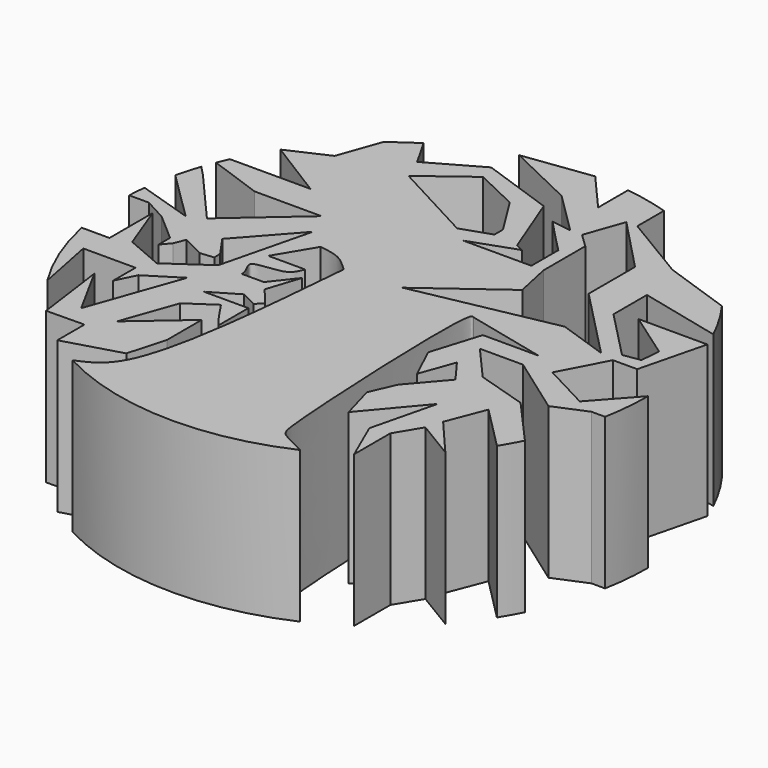
from build123d import *

# Parameters (mm, degrees)
F1_DEPTH = 25.4


with BuildPart() as f1:
    # F0 (on Top) → F1 (new body)
    with BuildSketch(Plane.XY):
        with BuildLine():
            ThreePointArc((43.704676099, -8.1057872589), (44.2632768364, -4.0699906266), (44.45, 0))
            Line((44.45, 0), (38.3762454863, -6.7695145848))
            Line((38.3762454863, -6.7695145848), (30.4140662095, -2.5716401001))
            Line((30.4140662095, -2.5716401001), (34.4598693357, 5.1021028682))
            Line((34.4598693357, 5.1021028682), (38.5398091507, 5.1021028682))
            Line((38.5398091507, 5.1021028682), (41.340966117, 16.3317794656))
            Line((41.340966117, 16.3317794656), (29.7620025051, 16.3317794656))
            Line((29.7620025051, 16.3317794656), (37.6569107253, 10.7998840139))
            Line((37.6569107253, 10.7998840139), (37.3528477732, 7.4648817648))
            Line((37.3528477732, 7.4648817648), (34.4598693357, 7.0039533134))
            Line((34.4598693357, 7.0039533134), (26.3554092655, 15.3433524242))
            Line((26.3554092655, 15.3433524242), (26.3554092655, 22.3718555596))
            Line((26.3554092655, 22.3718555596), (40.1509507291, 19.0710161121))
            ThreePointArc((40.1509507291, 19.0710161121), (38.2404494141, 22.6598880979), (36.0100197183, 26.0591822567))
            Line((36.0100197183, 26.0591822567), (24.5059830732, 30.046253556))
            Line((24.5059830732, 30.046253556), (13.1523255345, 36.8548135049))
            Line((13.1523255345, 36.8548135049), (13.1523255345, 42.4596141414))
            ThreePointArc((13.1523255345, 42.4596141414), (9.520993243, 43.418350817), (5.8216881898, 44.0671129826))
            Line((5.8216881898, 44.0671129826), (5.8216881898, 37.7795321464))
            Line((5.8216881898, 37.7795321464), (0, 44.45))
            Line((0, 44.45), (-11.5668197775, 42.9186577171))
            Line((-11.5668197775, 42.9186577171), (0, 37.3720790271))
            Line((0, 37.3720790271), (7.0577384585, 30.3874456776))
            Line((7.0577384585, 30.3874456776), (3.6453471464, 30.9077701819))
            Line((3.6453471464, 30.9077701819), (7.0577384585, 27.3500500395))
            Line((7.0577384585, 27.3500500395), (9.3304236081, 25.0318586734))
            Line((9.3304236081, 25.0318586734), (9.3304236081, 19.3706885501))
            Line((9.3304236081, 19.3706885501), (-2.1026324375, 19.3706885501))
            Line((-2.1026324375, 19.3706885501), (5.5705367236, 22.0912819416))
            Line((5.5705367236, 22.0912819416), (4.2201406021, 22.7765895828))
            Line((4.2201406021, 22.7765895828), (0, 33.6315410045))
            Line((0, 33.6315410045), (-12.2639499105, 37.9127315635))
            Line((-12.2639499105, 37.9127315635), (-20.8245608606, 33.0582727561))
            Line((-20.8245608606, 33.0582727561), (-23.4805989564, 37.7420716528))
            ThreePointArc((-23.4805989564, 37.7420716528), (-25.7137068729, 36.2575203076), (-27.853233261, 34.6410146634))
            Line((-27.853233261, 34.6410146634), (-30.3483057479, 27.6229865325))
            Line((-30.3483057479, 27.6229865325), (-37.0270949757, 24.5926155108))
            Line((-37.0270949757, 24.5926155108), (-26.9607932241, 18.317772023))
            Line((-26.9607932241, 18.317772023), (-40.5001447913, 18.317772023))
            ThreePointArc((-40.5001447913, 18.317772023), (-40.9156869326, 17.3697744036), (-41.3090426286, 16.4123580605))
            Line((-41.3090426286, 16.4123580605), (-32.2220331053, 13.1766568099))
            Line((-32.2220331053, 13.1766568099), (-20.9865597638, 13.1766568099))
            Line((-20.9865597638, 13.1766568099), (-32.3342754558, 3.2778158817))
            Line((-32.3342754558, 3.2778158817), (-40.5535289611, 12.7001060929))
            Line((-40.5535289611, 12.7001060929), (-42.0881711734, 14.2964452671))
            ThreePointArc((-42.0881711734, 14.2964452671), (-42.7156199987, 12.2954588416), (-43.247994613, 10.2671058217))
            Line((-43.247994613, 10.2671058217), (-34.9080591648, 2.0286042741))
            Line((-34.9080591648, 2.0286042741), (-44.1701690125, 4.9798262425))
            ThreePointArc((-44.1701690125, 4.9798262425), (-44.311503506, 3.5061598702), (-44.4036852603, 2.0286042741))
            Line((-44.4036852603, 2.0286042741), (-41.0906250328, 2.0286042741))
            Line((-41.0906250328, 2.0286042741), (-37.3294337081, 0))
            Line((-37.3294337081, 0), (-32.6545804034, -4.0618134039))
            Line((-32.6545804034, -4.0618134039), (-32.6545804034, -6.4967229435))
            Line((-32.6545804034, -6.4967229435), (-31.4006268427, -5.0094540041))
            Line((-31.4006268427, -5.0094540041), (-30.6248067702, -3.1227373514))
            Line((-30.6248067702, -3.1227373514), (-26.9258844929, -5.0023249455))
            Line((-26.9258844929, -5.0023249455), (-24.6496018838, -4.7759504527))
            Line((-24.6496018838, -4.7759504527), (-24.680626463, -3.5207036625))
            Line((-24.680626463, -3.5207036625), (-27.1262085414, 0))
            Line((-27.1262085414, 0), (-19.111280333, 8.9932536787))
            Line((-19.111280333, 8.9932536787), (-22.8618391946, -6.1794005338))
            Line((-22.8618391946, -6.1794005338), (-29.4998778801, -10.790373226))
            Line((-29.4998778801, -10.790373226), (-35.8092829268, -8.075045983))
            Line((-35.8092829268, -8.075045983), (-38.8495844895, 0))
            Line((-38.8495844895, 0), (-38.8495844895, -9.0487861421))
            Line((-38.8495844895, -9.0487861421), (-43.5192137952, -9.0487861421))
            ThreePointArc((-43.5192137952, -9.0487861421), (-41.2439066607, -16.5753631444), (-37.6780041311, -23.5832674729))
            Line((-37.6780041311, -23.5832674729), (-39.6750552833, -13.5251467775))
            Line((-39.6750552833, -13.5251467775), (-30.8937566892, -13.5251467775))
            Line((-30.8937566892, -13.5251467775), (-30.8937566892, -18.2168473015))
            Line((-30.8937566892, -18.2168473015), (-29.2824792269, -14.9614370338))
            Line((-29.2824792269, -14.9614370338), (-23.8202681725, -11.5252173406))
            Line((-23.8202681725, -11.5252173406), (-29.2824792269, -26.9571319202))
            Line((-29.2824792269, -26.9571319202), (-34.0718732776, -18.2168473015))
            Line((-34.0718732776, -18.2168473015), (-32.4182662921, -30.4114864914))
            Line((-32.4182662921, -30.4114864914), (-26.0305313037, -30.3295583668))
            Line((-26.0305313037, -30.3295583668), (-26.0305313037, -36.0307360464))
            Line((-26.0305313037, -36.0307360464), (-16.6308986723, -33.2953852711))
            Line((-16.6308986723, -33.2953852711), (-14.8497161906, -26.9571319202))
            Line((-14.8497161906, -26.9571319202), (-14.8497161906, -19.681075499))
            Line((-14.8497161906, -19.681075499), (-23.2630656429, -26.9571319202))
            Line((-23.2630656429, -26.9571319202), (-20.0048710871, -17.7520353818))
            Line((-20.0048710871, -17.7520353818), (-15.5527187897, -14.7480303308))
            Line((-15.5527187897, -14.7480303308), (-13.5784722435, -17.6740062021))
            Line((-13.5784722435, -17.6740062021), (-12.1584481763, -19.5038274832))
            Line((-12.1584481763, -19.5038274832), (-12.1584481763, -13.2389037838))
            Line((-12.1584481763, -13.2389037838), (-19.6191504902, -13.2389037838))
            Line((-19.6191504902, -13.2389037838), (-15.0464561653, -10.5254098808))
            Line((-15.0464561653, -10.5254098808), (-12.3378359363, -11.8821568323))
            Line((-12.3378359363, -11.8821568323), (-11.3327408226, -10.7720452013))
            Line((-11.3327408226, -10.7720452013), (-13.8265134831, -7.7241360835))
            Line((-13.8265134831, -7.7241360835), (-12.014329364, -2.1424514692))
            Line((-12.014329364, -2.1424514692), (-15.1898814267, -6.1794005338))
            Line((-15.1898814267, -6.1794005338), (-18.8946343708, -6.1794005338))
            add(Edge.make_bspline(
                [(-13.2013149351, 0), (-13.5679742386, -0.867562918), (-14.1417802712, -2.8551336689), (-21.6731611335, -2.4070426946), (-18.8164656554, -4.9714057174), (-18.8946343708, -6.1794005338)],
                knots=[0, 0, 0, 0, 0.2937199062, 0.6908083029, 1, 1, 1, 1], degree=3))
            Line((-13.2013149351, 0), (-19.394499122, 0))
            Line((-19.394499122, 0), (-15.643126382, 6.2778336934))
            add(Edge.make_bspline(
                [(-9.2623769855, 3.1903743622), (-10.1683737145, 4.0650652939), (-11.9716685733, 5.8060491295), (-14.4232490293, 6.1210787108), (-15.643126382, 6.2778336934)],
                knots=[0, 0, 0, 0, 0.5024118627, 1, 1, 1, 1], degree=3))
            add(Edge.make_bspline(
                [(-20.8984651632, -39.2308125563), (-19.0227174729, -38.4354283736), (-12.6089325614, -35.6754345167), (-10.6492832076, -12.9029994524), (-9.2623769855, 3.1903743622)],
                knots=[0, 0, 0, 0, 0.2933422321, 1, 1, 1, 1], degree=3))
            ThreePointArc((-20.8984651632, -39.2308125563), (-1.4267302198, -44.4270969216), (18.3382861829, -40.4908602017))
            add(Edge.make_bspline(
                [(18.3382861829, -40.4908602017), (16.800650041, -39.7684573781), (13.8810869179, -38.3785879352), (12.7340809413, -36.0534150056), (10.8537079929, 4.3088263933), (12.4095863322, 3.2863546111), (12.5556673868, 3.1903743622)],
                knots=[0, 0, 0, 0, 0.1945745472, 0.3689525646, 0.9407210575, 1, 1, 1, 1], degree=3))
            Line((12.5556673868, 3.1903743622), (26.0327312476, 0))
            Line((26.0327312476, 0), (16.6674540937, 0))
            Line((16.6674540937, 0), (14.1163282306, -8.2934123817))
            Line((14.1163282306, -8.2934123817), (16.7920096617, -13.9933407127))
            Line((16.7920096617, -13.9933407127), (18.8650966271, -8.1886949246))
            Line((18.8650966271, -8.1886949246), (21.7674178411, -12.1275609654))
            Line((21.7674178411, -12.1275609654), (16.7920096617, -17.9322074255))
            Line((16.7920096617, -17.9322074255), (14.9226369154, -22.1807765402))
            Line((14.9226369154, -22.1807765402), (16.5846997555, -28.0903350345))
            Line((16.5846997555, -28.0903350345), (24.2551246189, -18.9687502362))
            Line((24.2551246189, -18.9687502362), (21.5601079349, -29.9561134378))
            Line((21.5601079349, -29.9561134378), (24.6297491832, -37.0024047215))
            Line((24.6297491832, -37.0024047215), (24.6297491832, -29.3928310512))
            Line((24.6297491832, -29.3928310512), (27.1574471769, -25.1880124765))
            Line((27.1574471769, -25.1880124765), (33.6225707529, -29.074477398))
            Line((33.6225707529, -29.074477398), (27.9866814255, -22.4929984806))
            Line((27.9866814255, -22.4929984806), (30.4743868592, -16.0664276781))
            Line((30.4743868592, -16.0664276781), (37.7759431419, -23.4260670993))
            ThreePointArc((37.7759431419, -23.4260670993), (38.783221777, -21.7178315814), (39.7133054721, -19.9663684349))
            Line((39.7133054721, -19.9663684349), (32.5474751687, -11.9202537473))
            Line((32.5474751687, -11.9202537473), (24.099831034, -9.3132333563))
            Line((24.099831034, -9.3132333563), (18.7873544042, -3.2667341875))
            Line((18.7873544042, -3.2667341875), (26.0327312476, -3.2667341875))
            Line((26.0327312476, -3.2667341875), (35.9974019018, -10.3736902339))
            Line((35.9974019018, -10.3736902339), (41.4131227431, -8.1057872589))
            Line((41.4131227431, -8.1057872589), (43.704676099, -8.1057872589))
        make_face()
        Polygon((-4.9189029301, 21.5841254968), (-19.2240415026, 29.2505866358), (-11.4039010319, 35.1327965548), (-4.1301422855, 31.6558589691), (0, 25.0814852009), (0, 23.2533977972), align=None, mode=Mode.SUBTRACT)
        Polygon((12.6878964172, 13.258886178), (11.3784278194, 19.3706885501), (11.3784278194, 28.1440664159), (9.0285656372, 30.3874456776), (11.3085236792, 36.8548135049), (20.1618225394, 27.6124433138), (20.1618225394, 17.8627432901), (31.941140432, 5.741956426), (23.5674446572, 8.5952473997), (0, 3.9316086214), align=None, mode=Mode.SUBTRACT)
    extrude(amount=F1_DEPTH)


solid = f1.part
